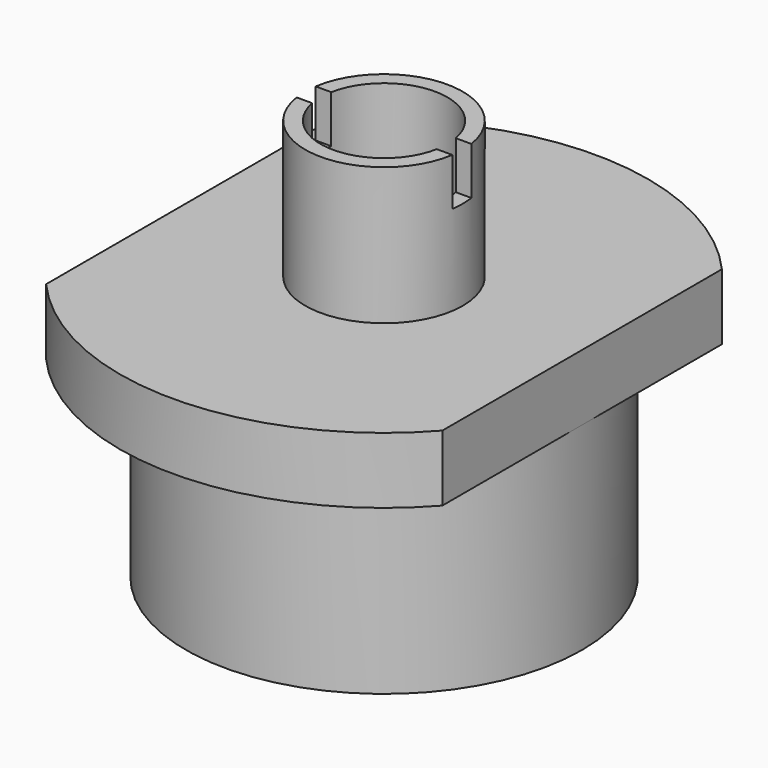
from build123d import *

# Parameters (mm, degrees)
F0_R      = 9.525
F1_DEPTH  = 9.525
F2_R      = 12.7
F2_R_2    = 9.525
F3_DEPTH  = 3.175
F5_DEPTH  = 25.4
F6_R      = 3.7846
F6_R_2    = 3.048
F7_DEPTH  = 6.604
F7_FACE_R = 3.048
F8_DEPTH  = 12.701
F10_DEPTH = 2.286


with BuildPart() as f1:
    # F0 (on Top) → F1 (new body)
    with BuildSketch(Plane.XY):
        Circle(F0_R)
    extrude(amount=F1_DEPTH)

    # F2 (on face) → F3 (join)
    with BuildSketch(Plane.XY.offset(9.525)):
        Circle(F2_R)
        Circle(F2_R_2, mode=Mode.SUBTRACT)
        Circle(F2_R_2)
    extrude(amount=F3_DEPTH)

    # F4 (on face) → F5 (cut)
    with BuildSketch(Plane.XY.offset(12.7)):
        with BuildLine():
            ThreePointArc((-9.525, 8.40026), (-12.7, 0), (-9.525, -8.40026))
            Line((-9.525, -8.40026), (-9.525, 8.40026))
        make_face()
        with BuildLine():
            Line((9.525, 8.40026), (9.525, -8.40026))
            ThreePointArc((9.525, -8.40026), (11.879762, -4.490128), (12.7, 0))
            ThreePointArc((12.7, 0), (11.879762, 4.490128), (9.525, 8.40026))
        make_face()
    extrude(amount=-F5_DEPTH, mode=Mode.SUBTRACT)

    # F6 (on face) → F7 (join)
    with BuildSketch(Plane.XY.offset(12.7)):
        Circle(F6_R)
        Circle(F6_R_2, mode=Mode.SUBTRACT)
    extrude(amount=F7_DEPTH)

    # F7_face (on face) → F8 (cut, through all)
    with BuildSketch(Plane.XY.offset(12.7)):
        Circle(F7_FACE_R)
    extrude(amount=-F8_DEPTH, mode=Mode.SUBTRACT)

    # F9 (on face) → F10 (cut)
    with BuildSketch(Plane.XY.offset(19.304)):
        with BuildLine():
            Line((3.741201, -0.5715), (4.079275, -0.5715))
            Line((4.079275, -0.5715), (4.079275, 0.5715))
            Line((4.079275, 0.5715), (3.741201, 0.5715))
            ThreePointArc((3.741201, 0.5715), (3.773735, 0.286573), (3.7846, 0))
            ThreePointArc((3.7846, 0), (3.773735, -0.286573), (3.741201, -0.5715))
        make_face()
        with BuildLine():
            Line((-4.079275, -0.5715), (-3.741201, -0.5715))
            ThreePointArc((-3.741201, -0.5715), (-3.7846, 0), (-3.741201, 0.5715))
            Line((-3.741201, 0.5715), (-4.079275, 0.5715))
            Line((-4.079275, 0.5715), (-4.079275, -0.5715))
        make_face()
        with BuildLine():
            ThreePointArc((-3.741201, 0.5715), (-3.7846, 0), (-3.741201, -0.5715))
            Line((-3.741201, -0.5715), (-2.993943, -0.5715))
            ThreePointArc((-2.993943, -0.5715), (-3.048, 0), (-2.993943, 0.5715))
            Line((-2.993943, 0.5715), (-3.741201, 0.5715))
        make_face()
        with BuildLine():
            Line((2.993943, -0.5715), (3.741201, -0.5715))
            ThreePointArc((3.741201, -0.5715), (3.773735, -0.286573), (3.7846, 0))
            ThreePointArc((3.7846, 0), (3.773735, 0.286573), (3.741201, 0.5715))
            Line((3.741201, 0.5715), (2.993943, 0.5715))
            ThreePointArc((2.993943, 0.5715), (3.034456, 0.287025), (3.048, 0))
            ThreePointArc((3.048, 0), (3.034456, -0.287025), (2.993943, -0.5715))
        make_face()
        with BuildLine():
            Line((-2.993943, -0.5715), (2.993943, -0.5715))
            ThreePointArc((2.993943, -0.5715), (3.034456, -0.287025), (3.048, 0))
            ThreePointArc((3.048, 0), (3.034456, 0.287025), (2.993943, 0.5715))
            Line((2.993943, 0.5715), (-2.993943, 0.5715))
            ThreePointArc((-2.993943, 0.5715), (-3.048, 0), (-2.993943, -0.5715))
        make_face()
    extrude(amount=-F10_DEPTH, mode=Mode.SUBTRACT)


solid = f1.part
